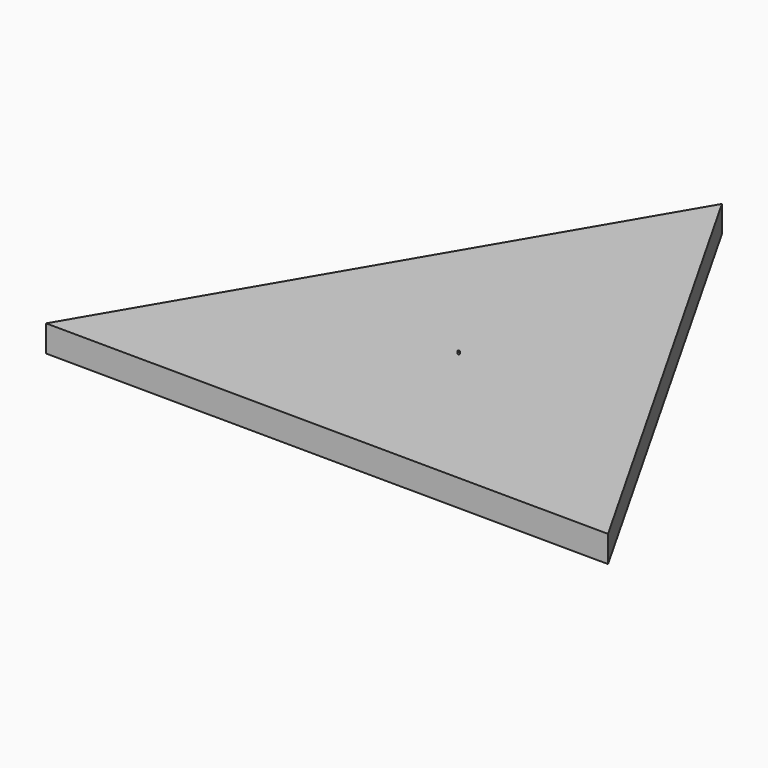
from build123d import *

# Parameters (mm, degrees)
F1_DEPTH = 12
F2_R     = 0.5
F3_DEPTH = 1


with BuildPart() as f1:
    # F0 (on Top) → F1 (new body)
    with BuildSketch(Plane.XY):
        Polygon((126.98753, -74.492732), (1.018833, 147.220793), (-128.006364, -72.728061), align=None)
    extrude(amount=F1_DEPTH)

    # F2 (on face) → F3 (join)
    with BuildSketch(Plane.XY.offset(12)):
        Circle(F2_R)
    extrude(amount=F3_DEPTH)


solid = f1.part
